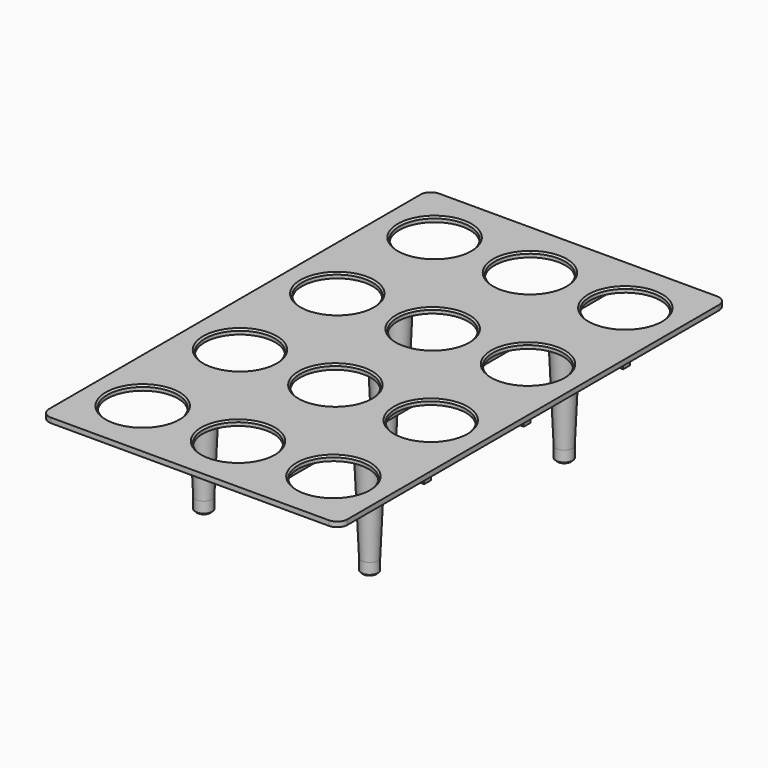
from build123d import *

# Parameters (mm, degrees)
SKETCH007_R     = 8.5
PAD004_DEPTH    = 1.2
SKETCH010_W     = 22
SKETCH010_H     = 28
PAD005_DEPTH    = 2
CHAMFER003_SIZE = 0.4


with BuildPart() as part:
    # Sketch007 → Pad004 (new body)
    with BuildSketch(Plane.XY):
        with BuildLine():
            Line((-33.5, 58.5), (33.5, 58.5))
            ThreePointArc((36, 56), (35.267767, 57.767767), (33.5, 58.5))
            Line((36, 56), (36, -56))
            ThreePointArc((33.5, -58.5), (35.267767, -57.767767), (36, -56))
            Line((33.5, -58.5), (-33.5, -58.5))
            ThreePointArc((-36, -56), (-35.267767, -57.767767), (-33.5, -58.5))
            Line((-36, -56), (-36, 56))
            ThreePointArc((-33.5, 58.5), (-35.267767, 57.767767), (-36, 56))
        make_face()
        with Locations((-23, 44)):
            Circle(SKETCH007_R, mode=Mode.SUBTRACT)
        with Locations((-23, 14.666667)):
            Circle(SKETCH007_R, mode=Mode.SUBTRACT)
        with Locations((-23, -14.666667)):
            Circle(SKETCH007_R, mode=Mode.SUBTRACT)
        with Locations((-23, -44)):
            Circle(SKETCH007_R, mode=Mode.SUBTRACT)
        with Locations((0, -44)):
            Circle(SKETCH007_R, mode=Mode.SUBTRACT)
        with Locations((0, -14.666667)):
            Circle(SKETCH007_R, mode=Mode.SUBTRACT)
        with Locations((0, 14.666667)):
            Circle(SKETCH007_R, mode=Mode.SUBTRACT)
        with Locations((0, 44)):
            Circle(SKETCH007_R, mode=Mode.SUBTRACT)
        with Locations((23, 44)):
            Circle(SKETCH007_R, mode=Mode.SUBTRACT)
        with Locations((23, 14.666667)):
            Circle(SKETCH007_R, mode=Mode.SUBTRACT)
        with Locations((23, -14.666667)):
            Circle(SKETCH007_R, mode=Mode.SUBTRACT)
        with Locations((23, -44)):
            Circle(SKETCH007_R, mode=Mode.SUBTRACT)
    extrude(amount=PAD004_DEPTH)

    # Sketch008 → Revolution (revolve)
    with BuildSketch(Plane.XZ.offset(29.333)):
        with BuildLine():
            Line((-20, 0), (-20, -26))
            Line((-20, -26), (-18.4, -26))
            Line((-18.4, -26), (-18, -25.6))
            Line((-18, -25.6), (-18, -23))
            Line((-18, -23), (-17.083179, -1.913126))
            ThreePointArc((-15.085067, 0), (-16.468225, -0.555398), (-17.083179, -1.913126))
            Line((-15.085067, 0), (-20, 0))
        make_face()
    revolution = revolve(axis=Axis((-20, -29.333, 0), (0, 0, -1)))

    # Sketch008 Mirrored 2 → Revolution Mirrored 2 (revolve)
    with BuildSketch(Plane(origin=(0, -29.333, 0), x_dir=(-1, 0, 0), z_dir=(0, 1, 0))):
        with BuildLine():
            Line((-20, 0), (-20, -26))
            Line((-20, -26), (-18.4, -26))
            Line((-18.4, -26), (-18, -25.6))
            Line((-18, -25.6), (-18, -23))
            Line((-18, -23), (-17.083179, -1.913126))
            ThreePointArc((-15.085067, 0), (-16.468225, -0.555398), (-17.083179, -1.913126))
            Line((-15.085067, 0), (-20, 0))
        make_face()
    revolution_mirrored_2 = revolve(axis=Axis((20, -29.333, 0), (0, 0, -1)))

    # Mirrored001: Revolution, Revolution Mirrored 2 across XZ
    add(revolution.mirror(Plane.XZ))
    add(revolution_mirrored_2.mirror(Plane.XZ))

    # Sketch009 → Revolution001 (revolve)
    with BuildSketch(Plane.XZ):
        with BuildLine():
            Line((0, 0), (0, -26))
            Line((0, -26), (1.6, -26))
            Line((1.6, -26), (2, -25.6))
            Line((2, -25.6), (2, -23))
            Line((2, -23), (2.916821, -1.913126))
            ThreePointArc((4.914933, 0), (3.531775, -0.555398), (2.916821, -1.913126))
            Line((4.914933, 0), (0, 0))
        make_face()
    revolve(axis=Axis((0, 0, 0), (0, 0, 1)))

    # Sketch010 → Pad005 (join)
    with BuildSketch(Plane(origin=(0, 0, 0), x_dir=(1, 0, 0), z_dir=(0, 0, -1))):
        Polygon((11, -54.5), (13, -54.5), (13, -31), (34.5, -31), (34.5, -29), (13, -29), (13, -1), (34.5, -1), (34.5, 1), (13, 1), (13, 29), (34.5, 29), (34.5, 31), (13, 31), (13, 54.5), (11, 54.5), (11, 31), (-11, 31), (-11, 54.5), (-13, 54.5), (-13, 31), (-34.5, 31), (-34.5, 29), (-13, 29), (-13, 1), (-34.5, 1), (-34.5, -1), (-13, -1), (-13, -29), (-34.5, -29), (-34.5, -31), (-13, -31), (-13, -54.5), (-11, -54.5), (-11, -31), (11, -31), align=None)
        with Locations((0, 15)):
            Rectangle(SKETCH010_W, SKETCH010_H, mode=Mode.SUBTRACT)
        with Locations((0, -15)):
            Rectangle(SKETCH010_W, SKETCH010_H, mode=Mode.SUBTRACT)
    extrude(amount=PAD005_DEPTH)

    # Chamfer003
    chamfer003_edges = [part.edges().sort_by_distance(p)[0] for p in [
        (-31.5, 44, 1.2),
        (-31.5, -14.666667, 1.2),
        (-31.5, 14.666667, 1.2),
        (-8.5, 14.666667, 1.2),
        (-8.5, 44, 1.2),
        (-8.5, -44, 1.2),
        (-31.5, -44, 1.2),
        (14.5, 44, 1.2),
        (-8.5, -14.666667, 1.2),
        (14.5, -44, 1.2),
        (14.5, -14.666667, 1.2),
        (14.5, 14.666667, 1.2),
    ]]
    chamfer(chamfer003_edges, length=CHAMFER003_SIZE)


with BuildPart() as part_1:
    # Body002 placement: moved
    add(part.part.moved(Location((-22.5, 0, 27))))


solid = part_1.part
